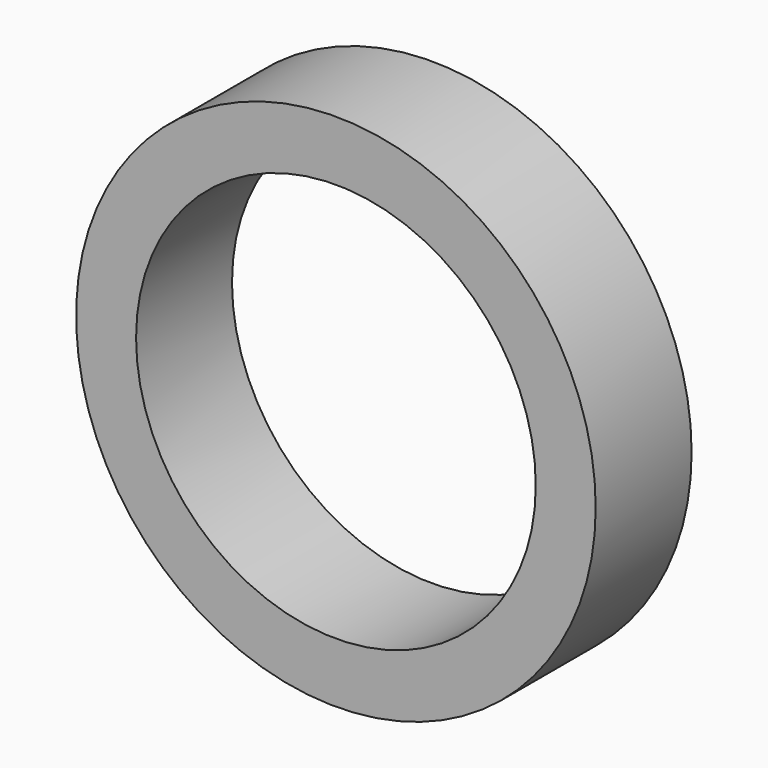
from build123d import *

# Parameters (mm, degrees)
CYLINDER007_R          = 5
CYLINDER007_DEPTH      = 3
CYLINDER007_ROLL_ANGLE = 90
CYLINDER008_R          = 6.5
CYLINDER008_DEPTH      = 3
CYLINDER008_ROLL_ANGLE = 90


with BuildPart() as cylinder007:
    # Cylinder007 → Cylinder007 (new body)
    with BuildSketch(Plane.XY):
        Circle(CYLINDER007_R)
    extrude(amount=CYLINDER007_DEPTH)


with BuildPart() as cylinder007_1:
    # Cylinder007 roll: moved
    add(cylinder007.part.rotate(Axis((0, 0, 0), (1, 0, 0)), CYLINDER007_ROLL_ANGLE))


with BuildPart() as cylinder007_2:
    # Cylinder007 placement: moved
    add(cylinder007_1.part.moved(Location((-5.4, 46, 0))))


with BuildPart() as cut002:
    # Cylinder008 → Cylinder008 (new body)
    with BuildSketch(Plane.XY):
        Circle(CYLINDER008_R)
    extrude(amount=CYLINDER008_DEPTH)


with BuildPart() as cut002_1:
    # Cylinder008 roll: moved
    add(cut002.part.rotate(Axis((0, 0, 0), (1, 0, 0)), CYLINDER008_ROLL_ANGLE))


with BuildPart() as cut002_2:
    # Cylinder008 placement: moved
    add(cut002_1.part.moved(Location((-5.4, 46, 0))))

    # Cut002: cut Cylinder007
    add(cylinder007_2.part, mode=Mode.SUBTRACT)


with BuildPart() as cut002_3:
    # Cut002 placement: moved
    add(cut002_2.part.moved(Location((3.4, -72, 3.6))))


solid = cut002_3.part
